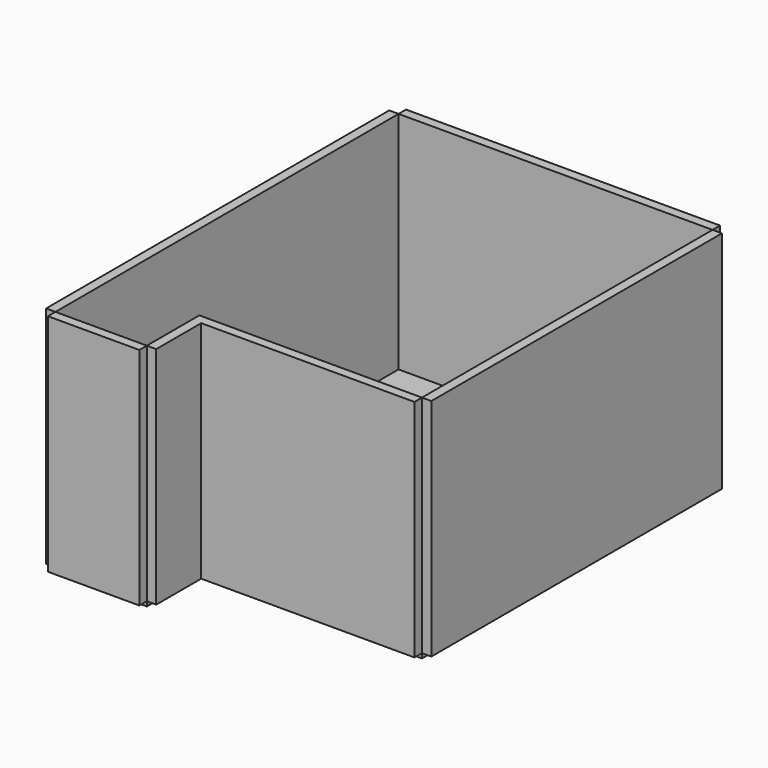
from build123d import *

# Parameters (mm, degrees)
F0_W     = 990.6
F0_H     = 711.2
F1_DEPTH = 50.8
F2_W     = 3403.6
F2_H     = 101.6
F2_W_2   = 990.6
F2_W_3   = 2311.4
F2_W_4   = 101.6
F2_H_2   = 3937
F2_H_3   = 4648.2
F3_DEPTH = 2438.4


with BuildPart() as f1:
    # F0 (on Top) → F1 (new body)
    with BuildSketch(Plane.XY):
        Polygon((1701.8, -1968.5), (1701.8, 1968.5), (-1701.8, 1968.5), (-1701.8, -1968.5), (-711.2, -1968.5), align=None)
        with Locations((-1206.5, -2324.1)):
            Rectangle(F0_W, F0_H)
    extrude(amount=F1_DEPTH)


with BuildPart() as f3:
    # F2 (on face) → F3 (new body)
    with BuildSketch(Plane.XY.offset(50.8)):
        with Locations((0, 2019.3)):
            Rectangle(F2_W, F2_H)
        with Locations((-1206.5, -2730.5)):
            Rectangle(F2_W_2, F2_H)
        Polygon((-609.6, -2070.1), (-609.6, -1968.5), (-711.2, -1968.5), (-711.2, -2679.7), (-609.6, -2679.7), align=None)
        with Locations((546.1, -2019.3)):
            Rectangle(F2_W_3, F2_H)
        with Locations((1752.6, 0)):
            Rectangle(F2_W_4, F2_H_2)
        with Locations((-1752.6, -355.6)):
            Rectangle(F2_W_4, F2_H_3)
    extrude(amount=F3_DEPTH)


solid = Compound([f1.part, f3.part])
